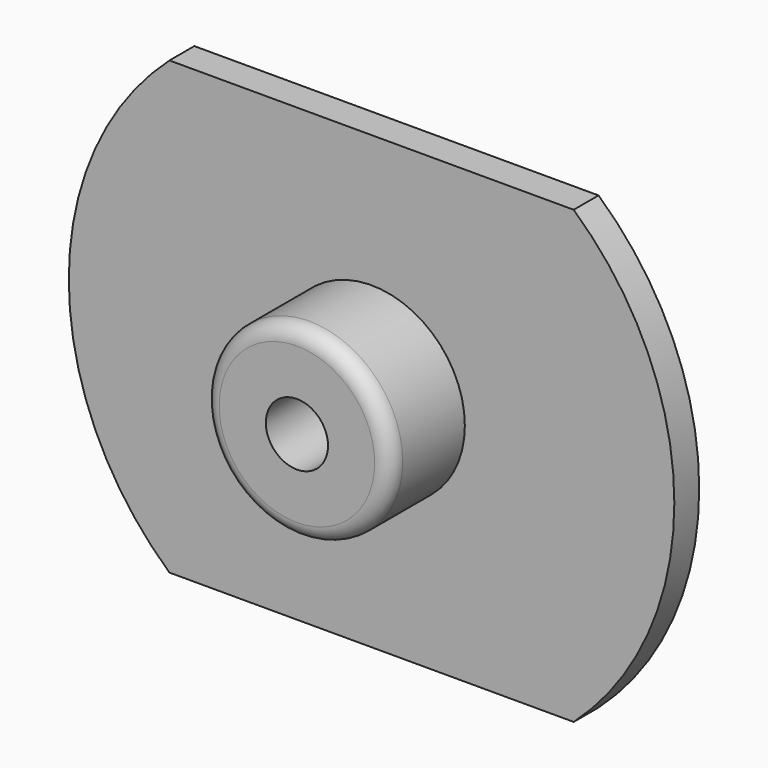
from build123d import *

# Parameters (mm, degrees)
SKETCH013_AS_DRAWN_R                 = 1
EXTRUDE011_DEPTH                     = 5
EXTRUDE011_ONTO_SKETCH013_ROLL_ANGLE = 90
SKETCH012_AS_DRAWN_R                 = 3
EXTRUDE012_DEPTH                     = 3
EXTRUDE012_ONTO_SKETCH012_ROLL_ANGLE = 90
FILLET003_R                          = 0.5
EXTRUDE002_DEPTH                     = 1
EXTRUDE002_ONTO_SKETCH001_ROLL_ANGLE = 90


with BuildPart() as extrude011:
    # Sketch013 as drawn → Extrude011 (new)
    with BuildSketch(Plane.XY):
        Circle(SKETCH013_AS_DRAWN_R)
    extrude(amount=-EXTRUDE011_DEPTH)


with BuildPart() as extrude011_1:
    # Extrude011 onto Sketch013 roll: moved
    add(extrude011.part.rotate(Axis((0, 0, 0), (1, 0, 0)), EXTRUDE011_ONTO_SKETCH013_ROLL_ANGLE))


with BuildPart() as extrude011_2:
    # Extrude011 onto Sketch013 placement: moved
    add(extrude011_1.part.moved(Location((0, -3, 0))))


with BuildPart() as fillet003:
    # Sketch012 as drawn → Extrude012 (new)
    with BuildSketch(Plane.XY):
        Circle(SKETCH012_AS_DRAWN_R)
    extrude(amount=-EXTRUDE012_DEPTH)


with BuildPart() as fillet003_1:
    # Extrude012 onto Sketch012 roll: moved
    add(fillet003.part.rotate(Axis((0, 0, 0), (1, 0, 0)), EXTRUDE012_ONTO_SKETCH012_ROLL_ANGLE))


with BuildPart() as fillet003_2:
    # Extrude012 onto Sketch012 placement: moved
    add(fillet003_1.part.moved(Location((0, -2.5, 0))))


with BuildPart() as fillet003_3:
    # Extrude012 placement: moved
    add(fillet003_2.part.moved(Location((0, 0.5, 0))))

    # Fillet003
    fillet003_edges = [fillet003_3.edges().sort_by_distance(p)[0] for p in [
        (-3, -2, 0),
    ]]
    fillet(fillet003_edges, radius=FILLET003_R)


with BuildPart() as cut005:
    # Sketch001 as drawn → Extrude002 (new)
    with BuildSketch(Plane.XY):
        with BuildLine():
            Line((-6.5, 7.250002), (6.499997, 7.250002))
            ThreePointArc((6.499997, -7.250002), (9.737171, 0), (6.499997, 7.250002))
            Line((-6.5, -7.250002), (6.499997, -7.250002))
            ThreePointArc((-6.5, 7.250002), (-9.737172, 0), (-6.5, -7.250002))
        make_face()
    extrude(amount=-EXTRUDE002_DEPTH)


with BuildPart() as cut005_1:
    # Extrude002 onto Sketch001 roll: moved
    add(cut005.part.rotate(Axis((0, 0, 0), (1, 0, 0)), EXTRUDE002_ONTO_SKETCH001_ROLL_ANGLE))


with BuildPart() as cut005_2:
    # Extrude002 onto Sketch001 placement: moved
    add(cut005_1.part)


with BuildPart() as cut005_3:
    # Extrude002 placement: moved
    add(cut005_2.part.moved(Location((0, 1, 0))))

    # Fusion001: union Fillet003
    add(fillet003_3.part)

    # Cut005: cut Extrude011
    add(extrude011_2.part, mode=Mode.SUBTRACT)


solid = cut005_3.part
